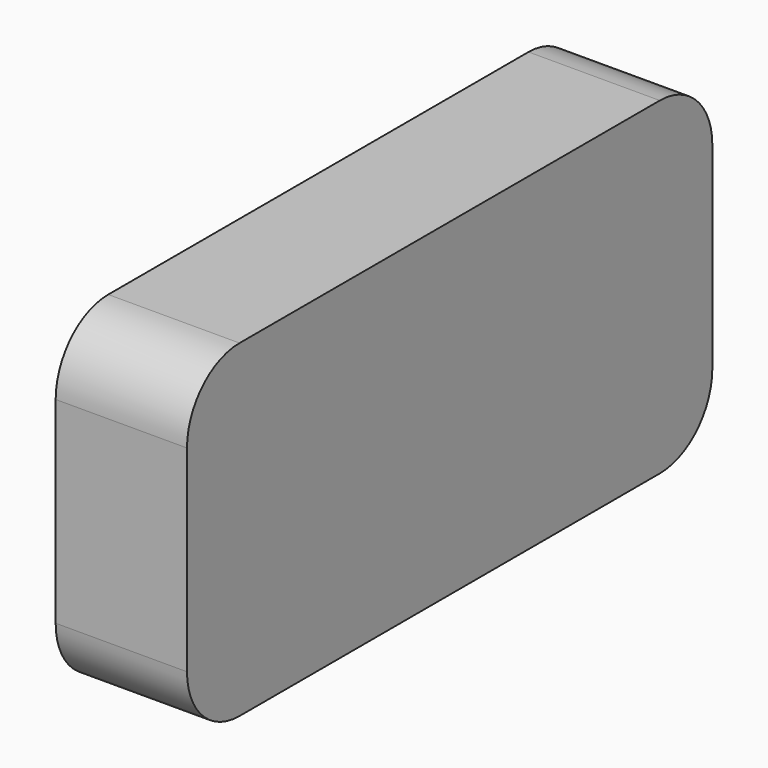
from build123d import *

# Parameters (mm, degrees)
F1_DEPTH = 12.7


with BuildPart() as f1:
    # F0 (on Right) → F1 (new body, symmetric)
    with BuildSketch(Plane.YZ):
        with BuildLine():
            ThreePointArc((63.5, 19.05), (59.780256, 28.030256), (50.8, 31.75))
            Line((50.8, 31.75), (-50.8, 31.75))
            ThreePointArc((-50.8, 31.75), (-59.780256, 28.030256), (-63.5, 19.05))
            Line((-63.5, 19.05), (-63.5, -19.05))
            ThreePointArc((-63.5, -19.05), (-59.780256, -28.030256), (-50.8, -31.75))
            Line((-50.8, -31.75), (50.8, -31.75))
            ThreePointArc((50.8, -31.75), (59.780256, -28.030256), (63.5, -19.05))
            Line((63.5, -19.05), (63.5, 19.05))
        make_face()
    extrude(amount=F1_DEPTH, both=True)


solid = f1.part
